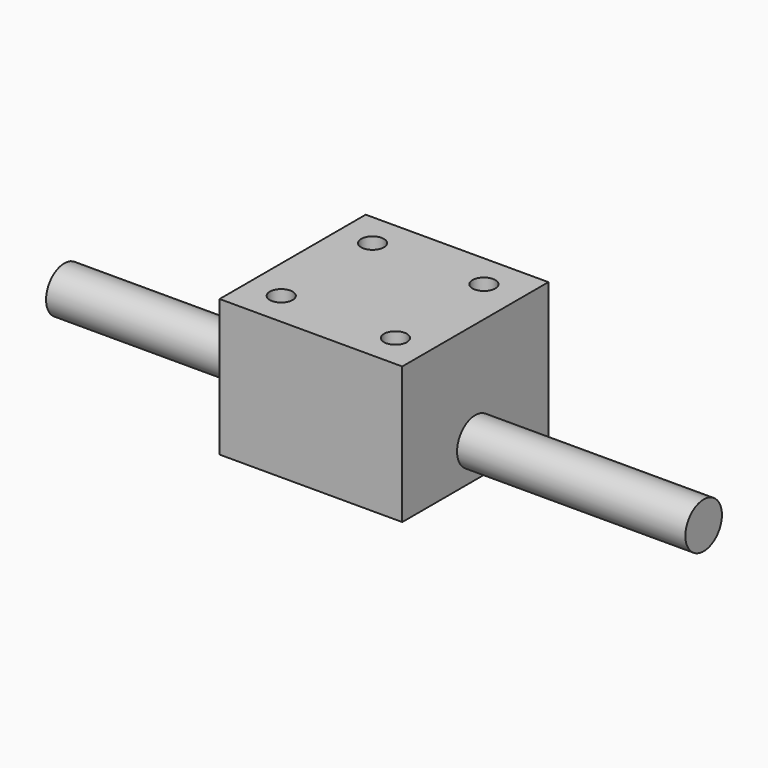
from build123d import *

# Parameters (mm, degrees)
F0_W     = 50.8
F0_H     = 50.8
F0_R     = 3.175
F1_DEPTH = 19.05
F2_R     = 6.35
F3_DEPTH = 88.9


with BuildPart() as f1:
    # F0 (on Top) → F1 (new body, symmetric)
    with BuildSketch(Plane.XY):
        Rectangle(F0_W, F0_H)
        with Locations((-15.875, -15.875)):
            Circle(F0_R, mode=Mode.SUBTRACT)
        with Locations((15.875, -15.875)):
            Circle(F0_R, mode=Mode.SUBTRACT)
        with Locations((-15.875, 15.875)):
            Circle(F0_R, mode=Mode.SUBTRACT)
        with Locations((15.092324, 15.875)):
            Circle(F0_R, mode=Mode.SUBTRACT)
    extrude(amount=F1_DEPTH, both=True)

    # F2 (on Right) → F3 (join, symmetric)
    with BuildSketch(Plane.YZ):
        with Locations((0, -9.525)):
            Circle(F2_R)
    extrude(amount=F3_DEPTH, both=True)


solid = f1.part
